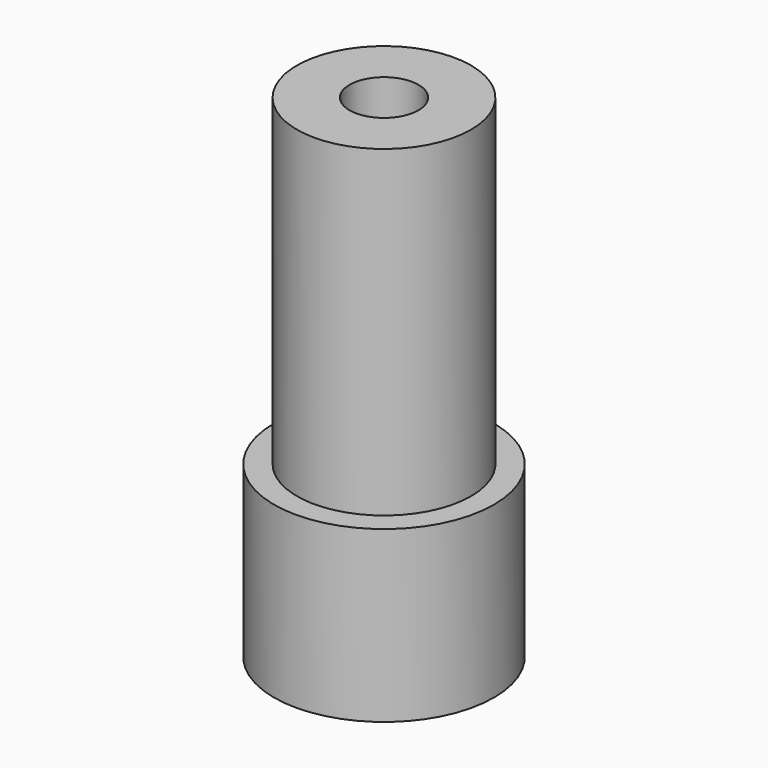
from build123d import *

# Parameters (mm, degrees)
F0_R     = 16.4465
F1_DEPTH = 25.4
F2_R     = 13.0175
F3_DEPTH = 48.26
F5_D     = 10.31875


with BuildPart() as f1:
    # F0 (on Top) → F1 (new body)
    with BuildSketch(Plane.XY):
        Circle(F0_R)
    extrude(amount=F1_DEPTH)

    # F2 (on face) → F3 (join)
    with BuildSketch(Plane.XY.offset(25.4)):
        Circle(F2_R)
    extrude(amount=F3_DEPTH)

    # F5 (through all)
    with Locations(Plane.XY.offset(73.66)):
        with Locations((0, 0)):
            Hole(F5_D / 2)


solid = f1.part
